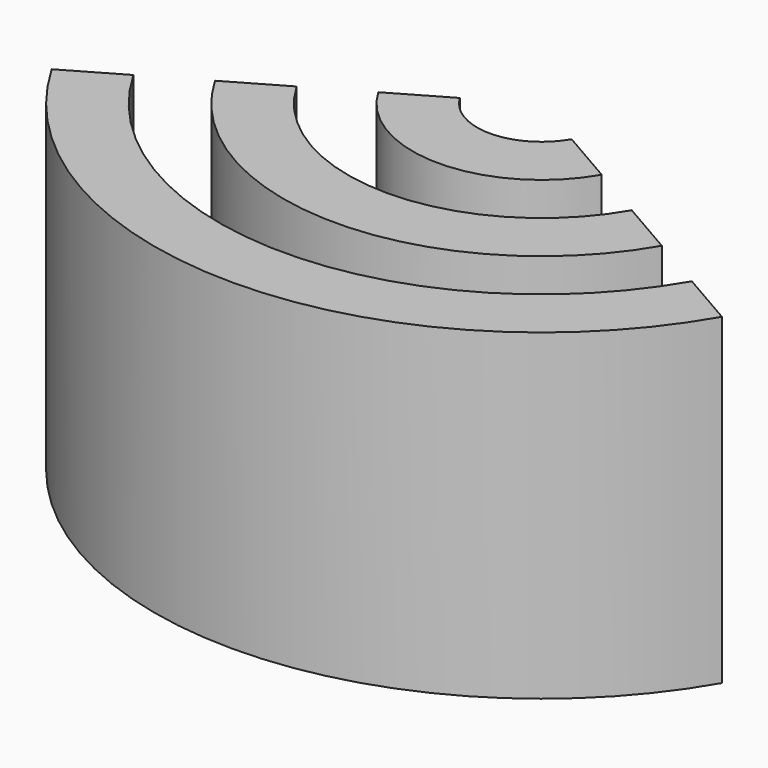
from build123d import *

# Parameters (mm, degrees)
CYLINDER052_W               = 6
CYLINDER052_H               = 10
CYLINDER052_ANGLE           = 120
CYLINDER052_PLACEMENT_ANGLE = 30
CYLINDER048_W               = 8
CYLINDER048_H               = 10
CYLINDER048_ANGLE           = 120
CYLINDER048_PLACEMENT_ANGLE = 30
CYLINDER051_W               = 2
CYLINDER051_H               = 10
CYLINDER051_ANGLE           = 120
CYLINDER051_PLACEMENT_ANGLE = 30
CYLINDER049_W               = 4
CYLINDER049_H               = 10
CYLINDER049_ANGLE           = 120
CYLINDER049_PLACEMENT_ANGLE = 30
CYLINDER050_W               = 10
CYLINDER050_H               = 10
CYLINDER050_ANGLE           = 120
CYLINDER050_PLACEMENT_ANGLE = 30
CYLINDER054_W               = 12
CYLINDER054_H               = 10
CYLINDER054_ANGLE           = 120
CYLINDER054_PLACEMENT_ANGLE = 30


with BuildPart() as cilindro027:
    # Cylinder052 → Cylinder052 (revolve)
    with BuildSketch(Plane.XZ):
        with Locations((3, 5)):
            Rectangle(CYLINDER052_W, CYLINDER052_H)
    revolve(axis=Axis((0, 0, 0), (0, 0, 1)), revolution_arc=CYLINDER052_ANGLE)


with BuildPart() as cilindro027_1:
    # Cylinder052 placement: moved
    add(cilindro027.part.moved(Location((-30.75, -30, 0))).rotate(Axis((-30.75, -30, 0), (0, 0, 1)), CYLINDER052_PLACEMENT_ANGLE))


with BuildPart() as obj1:
    # Cylinder048 → Cylinder048 (revolve)
    with BuildSketch(Plane.XZ):
        with Locations((4, 5)):
            Rectangle(CYLINDER048_W, CYLINDER048_H)
    revolve(axis=Axis((0, 0, 0), (0, 0, 1)), revolution_arc=CYLINDER048_ANGLE)


with BuildPart() as obj1_1:
    # Cylinder048 placement: moved
    add(obj1.part.moved(Location((-30.75, -30, 0))).rotate(Axis((-30.75, -30, 0), (0, 0, 1)), CYLINDER048_PLACEMENT_ANGLE))

    # Cut035: cut Cilindro027
    add(cilindro027_1.part, mode=Mode.SUBTRACT)


with BuildPart() as cilindro026:
    # Cylinder051 → Cylinder051 (revolve)
    with BuildSketch(Plane.XZ):
        with Locations((1, 5)):
            Rectangle(CYLINDER051_W, CYLINDER051_H)
    revolve(axis=Axis((0, 0, 0), (0, 0, 1)), revolution_arc=CYLINDER051_ANGLE)


with BuildPart() as cilindro026_1:
    # Cylinder051 placement: moved
    add(cilindro026.part.moved(Location((-30.75, -30, 0))).rotate(Axis((-30.75, -30, 0), (0, 0, 1)), CYLINDER051_PLACEMENT_ANGLE))


with BuildPart() as obj2:
    # Cylinder049 → Cylinder049 (revolve)
    with BuildSketch(Plane.XZ):
        with Locations((2, 5)):
            Rectangle(CYLINDER049_W, CYLINDER049_H)
    revolve(axis=Axis((0, 0, 0), (0, 0, 1)), revolution_arc=CYLINDER049_ANGLE)


with BuildPart() as obj2_1:
    # Cylinder049 placement: moved
    add(obj2.part.moved(Location((-30.75, -30, 0))).rotate(Axis((-30.75, -30, 0), (0, 0, 1)), CYLINDER049_PLACEMENT_ANGLE))

    # Cut037: cut Cilindro026
    add(cilindro026_1.part, mode=Mode.SUBTRACT)


with BuildPart() as cilindro025:
    # Cylinder050 → Cylinder050 (revolve)
    with BuildSketch(Plane.XZ):
        with Locations((5, 5)):
            Rectangle(CYLINDER050_W, CYLINDER050_H)
    revolve(axis=Axis((0, 0, 0), (0, 0, 1)), revolution_arc=CYLINDER050_ANGLE)


with BuildPart() as cilindro025_1:
    # Cylinder050 placement: moved
    add(cilindro025.part.moved(Location((-30.75, -30, 0))).rotate(Axis((-30.75, -30, 0), (0, 0, 1)), CYLINDER050_PLACEMENT_ANGLE))


with BuildPart() as fusion016:
    # Cylinder054 → Cylinder054 (revolve)
    with BuildSketch(Plane.XZ):
        with Locations((6, 5)):
            Rectangle(CYLINDER054_W, CYLINDER054_H)
    revolve(axis=Axis((0, 0, 0), (0, 0, 1)), revolution_arc=CYLINDER054_ANGLE)


with BuildPart() as fusion016_1:
    # Cylinder054 placement: moved
    add(fusion016.part.moved(Location((-30.75, -30, 0))).rotate(Axis((-30.75, -30, 0), (0, 0, 1)), CYLINDER054_PLACEMENT_ANGLE))

    # Cut036: cut Cilindro025
    add(cilindro025_1.part, mode=Mode.SUBTRACT)

    # Fusion016: union obj1, obj2
    add(obj1_1.part)
    add(obj2_1.part)


with BuildPart() as fusion016_2:
    # Fusion016 placement: moved
    add(fusion016_1.part.moved(Location((0, 0, -6))))


with BuildPart() as part_mirroring002:
    # Part__Mirroring002: instance of Fusion016
    add(fusion016_2.part.mirror(Plane(origin=(0, 0, 0), x_dir=(1, 0, 0), z_dir=(0, 1, 0))))


with BuildPart() as part_mirroring002_1:
    # Part__Mirroring002 placement: moved
    add(part_mirroring002.part.moved(Location((0.6, -60, 0))))


solid = part_mirroring002_1.part
